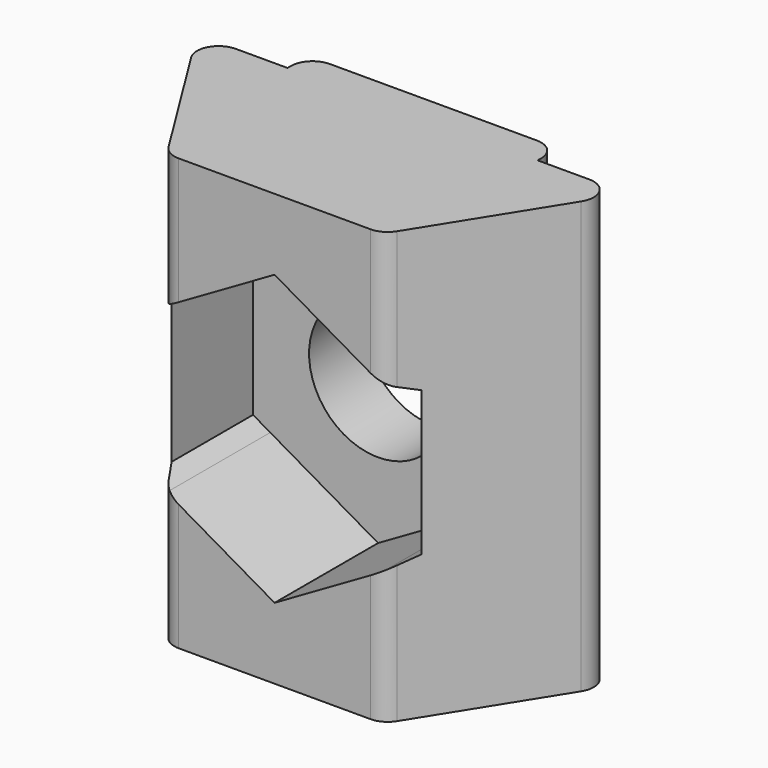
from build123d import *

# Parameters (mm, degrees)
F1_DEPTH = 10
F2_R     = 1.6
F3_DEPTH = 4.601
F4_DEPTH = 3
F5_R     = 0.5


with BuildPart() as f1:
    # F0 (on Top) → F1 (new body)
    with BuildSketch(Plane.XY):
        Polygon((-2.9, 2), (-5, 2), (-2.5, -2), (2.5, -2), (5, 2), (2.9, 2), (2.9, 2.6), (-2.9, 2.6), align=None)
    extrude(amount=F1_DEPTH)

    # F2 (on face) → F3 (cut, through all)
    with BuildSketch(Plane.XZ.offset(2)):
        with Locations((0, 5)):
            Circle(F2_R)
    extrude(amount=-F3_DEPTH, mode=Mode.SUBTRACT)

    # F2 (on face) → F4 (cut)
    with BuildSketch(Plane.XZ.offset(2)):
        Polygon((0, 1.651368), (2.5, 3.094744), (2.5, 6.905256), (0, 8.348632), (-2.5, 6.905256), (-2.5, 3.094744), align=None)
        with Locations((0, 5)):
            Circle(F2_R, mode=Mode.SUBTRACT)
        Polygon((2.5, 3.094744), (2.9, 3.325684), (2.9, 6.674316), (2.5, 6.905256), align=None)
        Polygon((-2.9, 3.325684), (-2.5, 3.094744), (-2.5, 6.905256), (-2.9, 6.674316), align=None)
    extrude(amount=-F4_DEPTH, mode=Mode.SUBTRACT)

    # F5
    f5_edges = [f1.edges().sort_by_distance(p)[0] for p in [
        (-5, 2, 5),
        (-2.5, -2, 1.547372),
        (-2.5, -2, 8.452628),
        (2.5, -2, 1.547372),
        (2.5, -2, 8.452628),
        (5, 2, 5),
        (-2.9, 2.6, 5),
        (2.9, 2.6, 5),
    ]]
    fillet(f5_edges, radius=F5_R)


solid = f1.part
